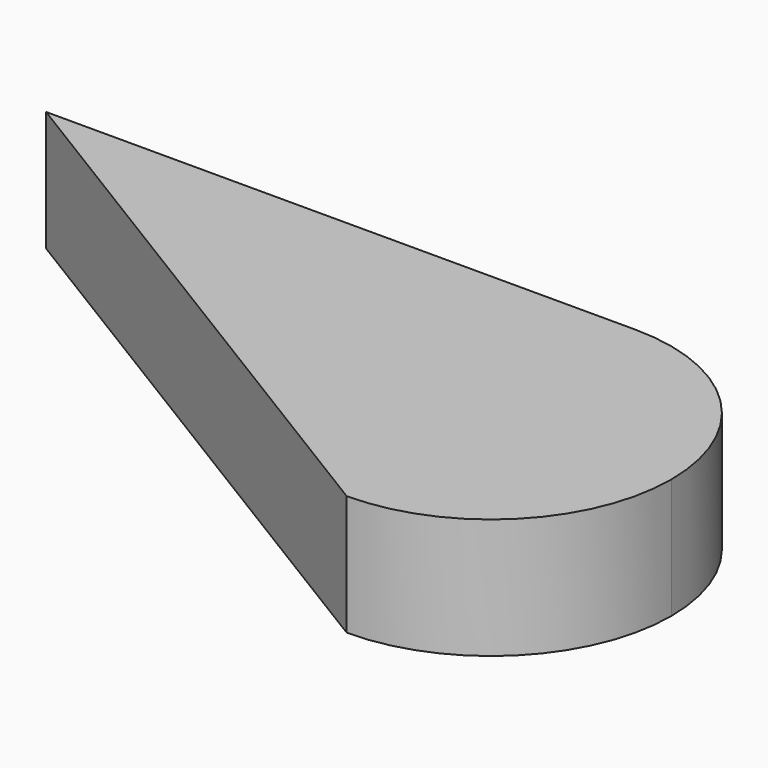
from build123d import *

# Parameters (mm, degrees)
F1_DEPTH = 25.4


with BuildPart() as f1:
    # F0 (on Top) → F1 (new body)
    with BuildSketch(Plane.XY):
        Polygon((56.778587, 45.875758), (-67.681413, 45.875758), (56.778587, -30.324242), (56.778587, 7.775758), align=None)
        with BuildLine():
            ThreePointArc((94.878587, 7.775758), (83.719355, 34.716526), (56.778587, 45.875758))
            Line((56.778587, 45.875758), (56.778587, 7.775758))
            Line((56.778587, 7.775758), (94.878587, 7.775758))
        make_face()
        with BuildLine():
            Line((56.778587, 7.775758), (56.778587, -30.324242))
            ThreePointArc((56.778587, -30.324242), (83.719355, -19.16501), (94.878587, 7.775758))
            Line((94.878587, 7.775758), (56.778587, 7.775758))
        make_face()
    extrude(amount=F1_DEPTH)


solid = f1.part
